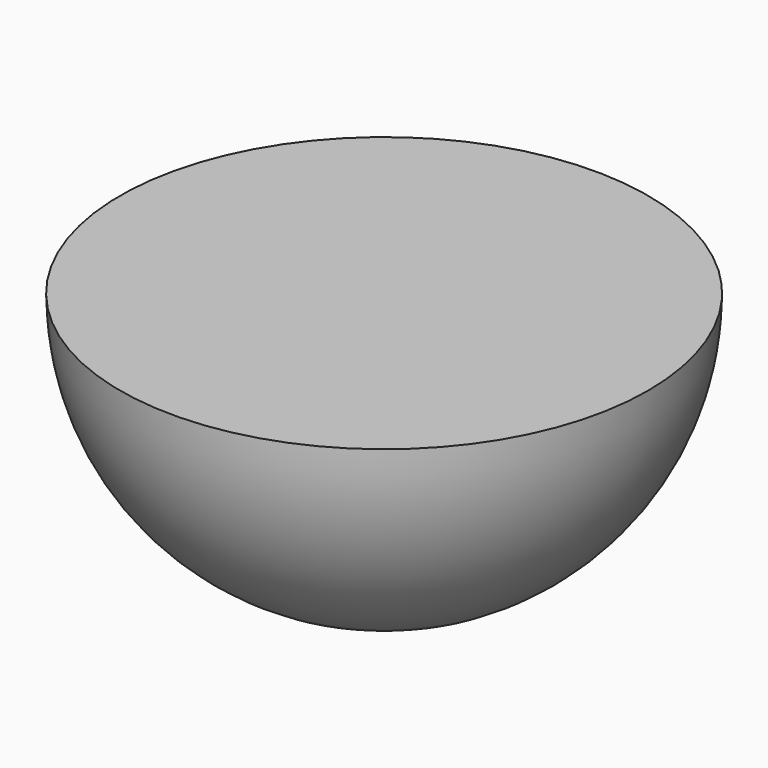
from build123d import *

# Parameters (mm, degrees)
BOX002_W     = 10
BOX002_H     = 10
BOX002_DEPTH = 10


with BuildPart() as cubo002:
    # Box002 → Box002 (new body)
    with BuildSketch(Plane(origin=(-5, -5, 0), x_dir=(1, 0, 0), z_dir=(0, 0, 1))):
        with Locations((5, 5)):
            Rectangle(BOX002_W, BOX002_H)
    extrude(amount=BOX002_DEPTH)


with BuildPart() as cut:
    # Sphere → Sphere (revolve)
    with BuildSketch(Plane.XZ):
        with BuildLine():
            ThreePointArc((0, -5), (5, 0), (0, 5))
            Line((0, 5), (0, -5))
        make_face()
    revolve(axis=Axis((0, 0, 0), (0, 0, 1)))

    # Cut: cut Cubo002
    add(cubo002.part, mode=Mode.SUBTRACT)


with BuildPart() as cut_1:
    # Cut placement: moved
    add(cut.part.moved(Location((-36, -35, -68))))


solid = cut_1.part
